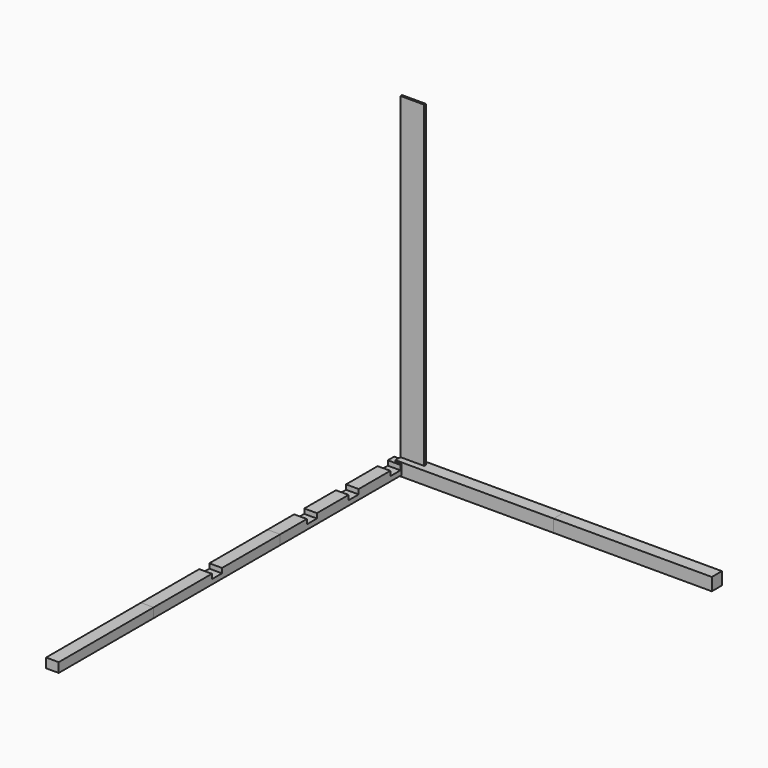
from build123d import *

# Parameters (mm, degrees)
F0_W      = 160
F0_H      = 120
F1_DEPTH  = 2000
F2_DEPTH  = 2000
F3_W      = 160
F3_H      = 60
F4_DEPTH  = 160.001
F5_W      = 300
F5_H      = 25
F6_DEPTH  = 4100
F7_W      = 160
F7_H      = 160
F8_DEPTH  = 2000
F9_DEPTH  = 2000
F10_DEPTH = 1500


with BuildPart() as f1:
    # F0 (on Front) → F1 (new body)
    with BuildSketch(Plane.XZ):
        Rectangle(F0_W, F0_H)
    extrude(amount=F1_DEPTH)


with BuildPart() as f2:
    # F2 (new): a face of the model
    f2_faces = [f1.part.faces().sort_by_distance(p)[0] for p in [
        (0, -2000, 0),
    ]]
    extrude(f2_faces, amount=F2_DEPTH)


with BuildPart() as f4_tool:
    # F3 (on face) → F4 (new body, through all)
    with BuildSketch(Plane.YZ.offset(80)):
        with Locations((-180, 30)):
            Rectangle(F3_W, F3_H)
        with Locations((-840, 30)):
            Rectangle(F3_W, F3_H)
        with Locations((-1500, 30)):
            Rectangle(F3_W, F3_H)
        with Locations((-3000, 30)):
            Rectangle(F3_W, F3_H)
    extrude(amount=-F4_DEPTH)


with BuildPart() as f1_1:
    add(f1.part)

    # F4: cut by f4_tool
    add(f4_tool.part, mode=Mode.SUBTRACT)


with BuildPart() as f2_1:
    add(f2.part)

    # F4: cut by f4_tool
    add(f4_tool.part, mode=Mode.SUBTRACT)


with BuildPart() as f6:
    # F5 (on Top) → F6 (new body)
    with BuildSketch(Plane.XY):
        with Locations((150, 12.5)):
            Rectangle(F5_W, F5_H)
    extrude(amount=F6_DEPTH)


with BuildPart() as f8:
    # F7 (on Right) → F8 (new body)
    with BuildSketch(Plane.YZ):
        Rectangle(F7_W, F7_H)
    extrude(amount=F8_DEPTH)


with BuildPart() as f9:
    # F9 (new): a face of the model
    f9_faces = [f8.part.faces().sort_by_distance(p)[0] for p in [
        (2000, 0, 0),
    ]]
    extrude(f9_faces, amount=F9_DEPTH)


with BuildPart() as f10:
    # F10 (new): a face of the model
    f10_faces = [f2_1.part.faces().sort_by_distance(p)[0] for p in [
        (0, -4000, 0),
    ]]
    extrude(f10_faces, amount=F10_DEPTH)


solid = Compound([f1_1.part, f2_1.part, f6.part, f8.part, f9.part, f10.part])
